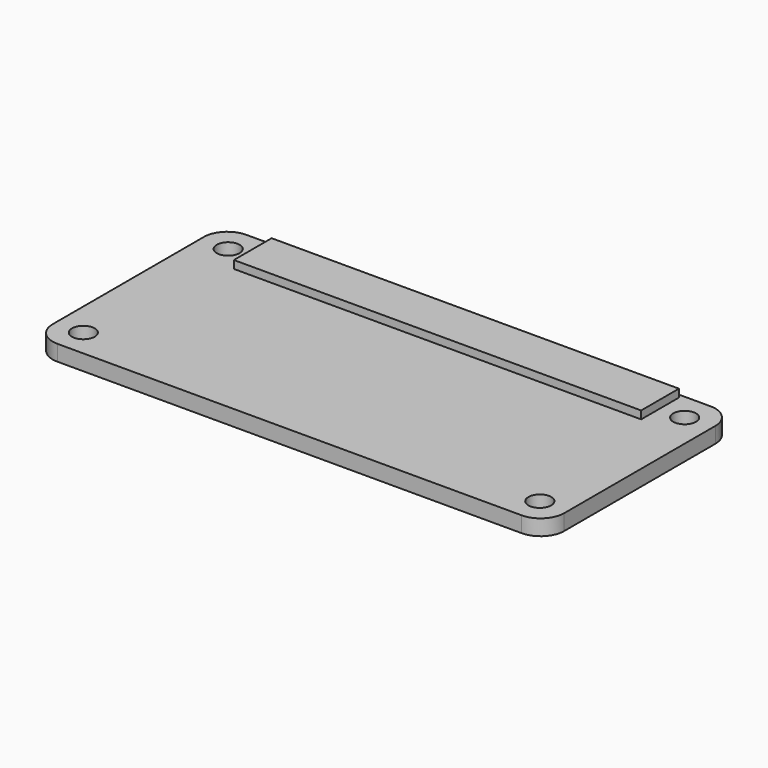
from build123d import *

# Parameters (mm, degrees)
SKETCH_R     = 1.45
PAD_DEPTH    = 2
SKETCH001_W  = 51.75
SKETCH001_H  = 6
PAD001_DEPTH = 1


with BuildPart() as part:
    # Sketch → Pad (new body)
    with BuildSketch(Plane.XY):
        with BuildLine():
            Line((-29.5, 15), (29.5, 15))
            ThreePointArc((32.5, 12), (31.62132, 14.12132), (29.5, 15))
            Line((32.5, 12), (32.5, -12))
            ThreePointArc((29.5, -15), (31.62132, -14.12132), (32.5, -12))
            Line((29.5, -15), (-29.5, -15))
            ThreePointArc((-32.5, -12), (-31.62132, -14.12132), (-29.5, -15))
            Line((-32.5, -12), (-32.5, 12))
            ThreePointArc((-29.5, 15), (-31.62132, 14.12132), (-32.5, 12))
        make_face()
        with Locations((-29, 11.5)):
            Circle(SKETCH_R, mode=Mode.SUBTRACT)
        with Locations((29, 11.5)):
            Circle(SKETCH_R, mode=Mode.SUBTRACT)
        with Locations((-29, -11.5)):
            Circle(SKETCH_R, mode=Mode.SUBTRACT)
        with Locations((29, -11.5)):
            Circle(SKETCH_R, mode=Mode.SUBTRACT)
    extrude(amount=PAD_DEPTH)

    # Sketch001 (on Face14 of Pad) → Pad001 (join)
    with BuildSketch(Plane.XY.offset(2)):
        with Locations((0, 11.5)):
            Rectangle(SKETCH001_W, SKETCH001_H)
    extrude(amount=PAD001_DEPTH)


solid = part.part
